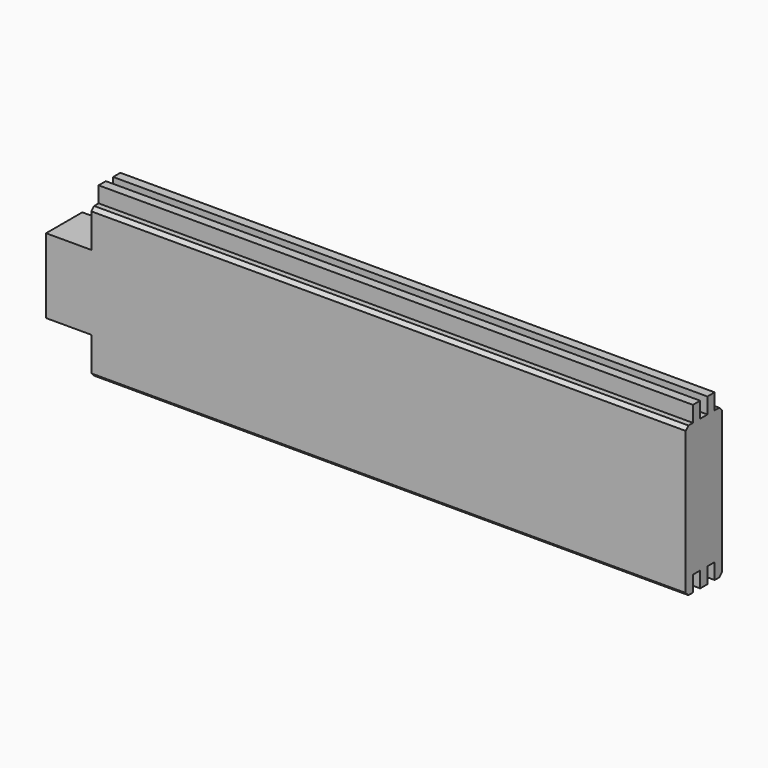
from build123d import *

# Parameters (mm, degrees)
F0_W     = 40
F0_H     = 33
F2_DEPTH = 565
F1_W     = 80
F1_H     = 100
F3_DEPTH = 25


with BuildPart() as f2:
    # F0 (on Right) → F2 (new body)
    with BuildSketch(Plane.YZ):
        with Locations((0, 16.5)):
            Rectangle(F0_W, F0_H)
        Polygon((20, 33), (20, 63), (17, 66), (12, 66), (12, 80), (4, 80), (4, 66), (-4, 66), (-4, 80), (-12, 80), (-12, 66), (-17, 66), (-20, 63), (-20, 33), align=None)
        with Locations((0, -16.5)):
            Rectangle(F0_W, F0_H)
        Polygon((20, -63), (20, -33), (-20, -33), (-20, -63), (-17, -66), (-12, -66), (-12, -52), (-4, -52), (-4, -66), (4, -66), (4, -52), (12, -52), (12, -66), (17, -66), align=None)
    extrude(amount=-F2_DEPTH)

    # F1 (on Front) → F3 (cut, symmetric)
    with BuildSketch(Plane.XZ):
        with Locations((-565, 83)):
            Rectangle(F1_W, F1_H)
        with Locations((-565, -83)):
            Rectangle(F1_W, F1_H)
    extrude(amount=F3_DEPTH, both=True, mode=Mode.SUBTRACT)


solid = f2.part
